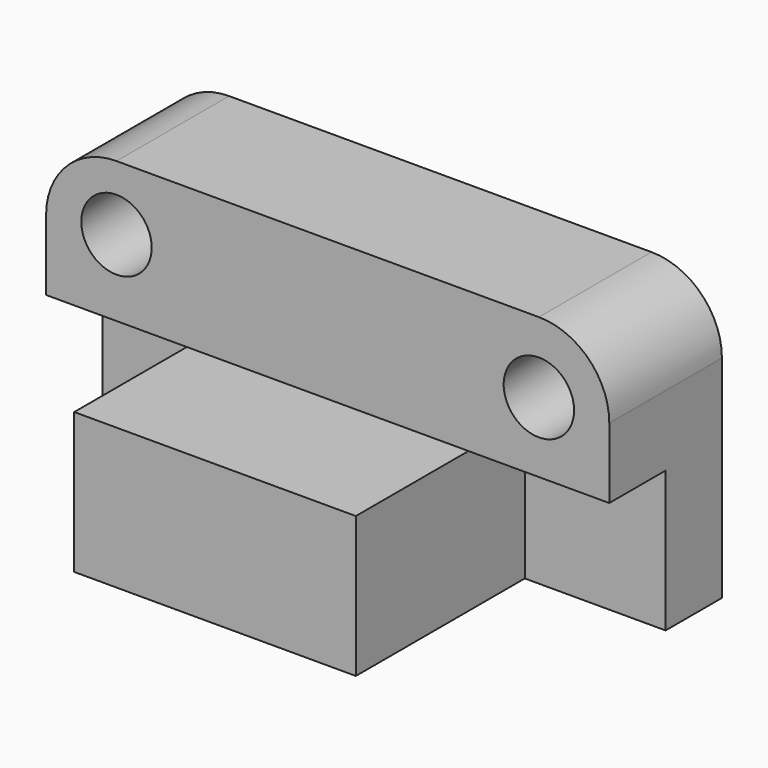
from build123d import *

# Parameters (mm, degrees)
F0_W      = 203.2
F0_H      = 101.6
F1_DEPTH  = 101.6
F2_W      = 203.2
F2_H      = 50.8
F3_DEPTH  = 50.8
F4_W      = 50.8
F4_H      = 76.2
F5_DEPTH  = 50.8
F6_W      = 50.8
F6_H      = 76.2
F7_DEPTH  = 50.8
F8_R      = 12.7
F9_DEPTH  = 50.8
F10_R     = 25.4
F11_R     = 12.7
F12_DEPTH = 50.8
F13_R     = 25.4


with BuildPart() as f1:
    # F0 (on Top) → F1 (new body)
    with BuildSketch(Plane.XY):
        Rectangle(F0_W, F0_H)
    extrude(amount=F1_DEPTH)

    # F2 (on face) → F3 (cut)
    with BuildSketch(Plane.XY.offset(101.6)):
        with Locations((0, -25.4)):
            Rectangle(F2_W, F2_H)
    extrude(amount=-F3_DEPTH, mode=Mode.SUBTRACT)

    # F4 (on face) → F5 (cut)
    with BuildSketch(Plane(origin=(0, 0, 0), x_dir=(1, 0, 0), z_dir=(0, 0, -1))):
        with Locations((76.2, 12.7)):
            Rectangle(F4_W, F4_H)
    extrude(amount=-F5_DEPTH, mode=Mode.SUBTRACT)

    # F6 (on face) → F7 (cut)
    with BuildSketch(Plane(origin=(0, 0, 0), x_dir=(1, 0, 0), z_dir=(0, 0, -1))):
        with Locations((-76.2, 12.7)):
            Rectangle(F6_W, F6_H)
    extrude(amount=-F7_DEPTH, mode=Mode.SUBTRACT)

    # F8 (on face) → F9 (cut, through all)
    with BuildSketch(Plane.XZ):
        with Locations((-76.2, 78.2079175115)):
            Circle(F8_R)
    extrude(amount=-F9_DEPTH, mode=Mode.SUBTRACT)

    # F10
    f10_edges = [f1.edges().sort_by_distance(p)[0] for p in [
        (-101.6, 25.4, 101.6),
    ]]
    fillet(f10_edges, radius=F10_R)

    # F11 (on face) → F12 (cut, through all)
    with BuildSketch(Plane.XZ):
        with Locations((76.2, 76.0898813605)):
            Circle(F11_R)
    extrude(amount=-F12_DEPTH, mode=Mode.SUBTRACT)

    # F13
    f13_edges = [f1.edges().sort_by_distance(p)[0] for p in [
        (101.6, 25.4, 101.6),
    ]]
    fillet(f13_edges, radius=F13_R)


solid = f1.part
